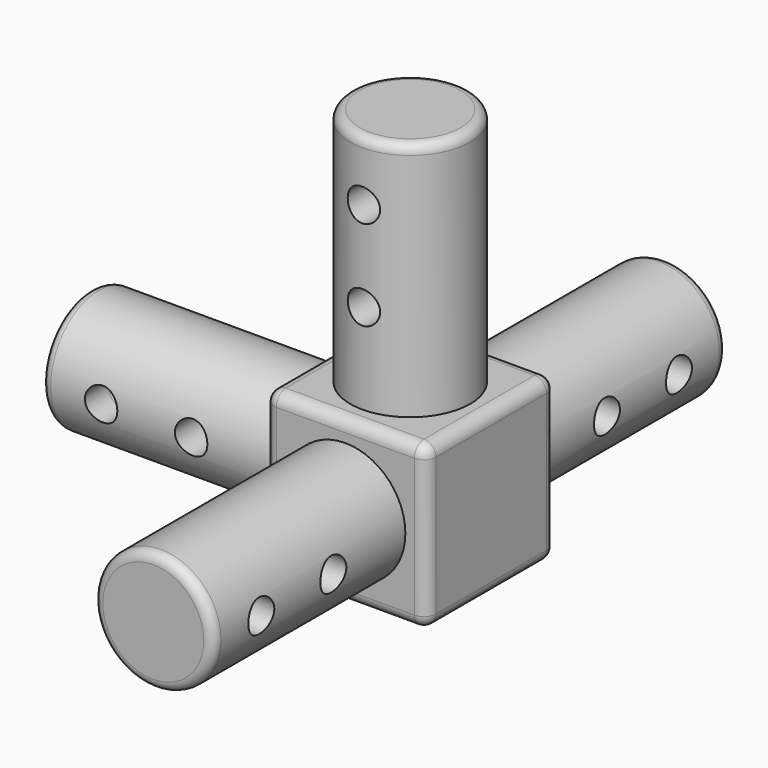
from build123d import *

# Parameters (mm, degrees)
F0_W      = 34.29
F0_H      = 34.29
F1_DEPTH  = 34.29
F2_R      = 12.7
F3_DEPTH  = 50.8
F4_R      = 12.7
F5_DEPTH  = 50.8
F6_R      = 12.7
F7_DEPTH  = 50.8
F8_R      = 3.429
F9_DEPTH  = 25.4
F10_R     = 3.429
F11_DEPTH = 25.4
F12_R     = 3.429
F13_DEPTH = 25.4
F14_R     = 2.54
F15_R     = 12.7
F16_DEPTH = 50.8
F17_R     = 3.429
F18_DEPTH = 25.4
F19_R     = 2.032


with BuildPart() as f1:
    # F0 (on Top) → F1 (new body)
    with BuildSketch(Plane.XY):
        with Locations((3.672889, 6.561064)):
            Rectangle(F0_W, F0_H)
    extrude(amount=F1_DEPTH)

    # F2 (on face) → F3 (join)
    with BuildSketch(Plane.XY.offset(34.29)):
        with Locations((3.682848, 6.561064)):
            Circle(F2_R)
    extrude(amount=F3_DEPTH)

    # F4 (on face) → F5 (join)
    with BuildSketch(Plane(origin=(-13.472111, 0, 0), x_dir=(0, -1, 0), z_dir=(-1, 0, 0))):
        with Locations((-6.561064, 17.145)):
            Circle(F4_R)
    extrude(amount=F5_DEPTH)

    # F6 (on face) → F7 (join)
    with BuildSketch(Plane.XZ.offset(10.583936)):
        with Locations((3.672889, 17.145)):
            Circle(F6_R)
    extrude(amount=F7_DEPTH)

    # F8 (on Front) → F9 (cut, symmetric)
    with BuildSketch(Plane.XZ):
        with Locations((3.672889, 53.34)):
            Circle(F8_R)
        with Locations((3.672889, 72.39)):
            Circle(F8_R)
    extrude(amount=F9_DEPTH, both=True, mode=Mode.SUBTRACT)

    # F10 (on Right) → F11 (cut, symmetric)
    with BuildSketch(Plane.YZ):
        with Locations((-29.633936, 17.145)):
            Circle(F10_R)
        with Locations((-48.683936, 17.145)):
            Circle(F10_R)
    extrude(amount=F11_DEPTH, both=True, mode=Mode.SUBTRACT)

    # F12 (on Front) → F13 (cut, symmetric)
    with BuildSketch(Plane.XZ):
        with Locations((-51.572111, 17.145)):
            Circle(F12_R)
        with Locations((-32.522111, 17.145)):
            Circle(F12_R)
    extrude(amount=F13_DEPTH, both=True, mode=Mode.SUBTRACT)

    # F14
    f14_edges = [f1.edges().sort_by_distance(p)[0] for p in [
        (20.817889, 23.706064, 17.145),
        (20.817889, 6.561064, 34.29),
        (20.817889, -10.583936, 17.145),
        (20.817889, 6.561064, 0),
        (3.672889, 23.706064, 0),
        (3.672889, 23.706064, 34.29),
        (-13.472111, 23.706064, 17.145),
        (-13.472111, 6.561064, 0),
        (3.672889, -10.583936, 0),
        (-13.472111, 6.561064, 34.29),
        (-13.472111, -10.583936, 17.145),
        (3.672889, -10.583936, 34.29),
    ]]
    fillet(f14_edges, radius=F14_R)

    # F15 (on face) → F16 (join)
    with BuildSketch(Plane(origin=(0, 23.706064, 0), x_dir=(-1, 0, 0), z_dir=(0, 1, 0))):
        with Locations((-3.672889, 17.145)):
            Circle(F15_R)
    extrude(amount=F16_DEPTH)

    # F17 (on Right) → F18 (cut, symmetric)
    with BuildSketch(Plane.YZ):
        with Locations((42.756064, 17.145)):
            Circle(F17_R)
        with Locations((61.806064, 17.145)):
            Circle(F17_R)
    extrude(amount=F18_DEPTH, both=True, mode=Mode.SUBTRACT)

    # F19
    f19_edges = [f1.edges().sort_by_distance(p)[0] for p in [
        (-9.017152, 6.561064, 85.09),
        (-9.027111, -61.383936, 17.145),
        (-64.272111, 19.261064, 17.145),
        (16.372889, 74.506064, 17.145),
    ]]
    fillet(f19_edges, radius=F19_R)


solid = f1.part
